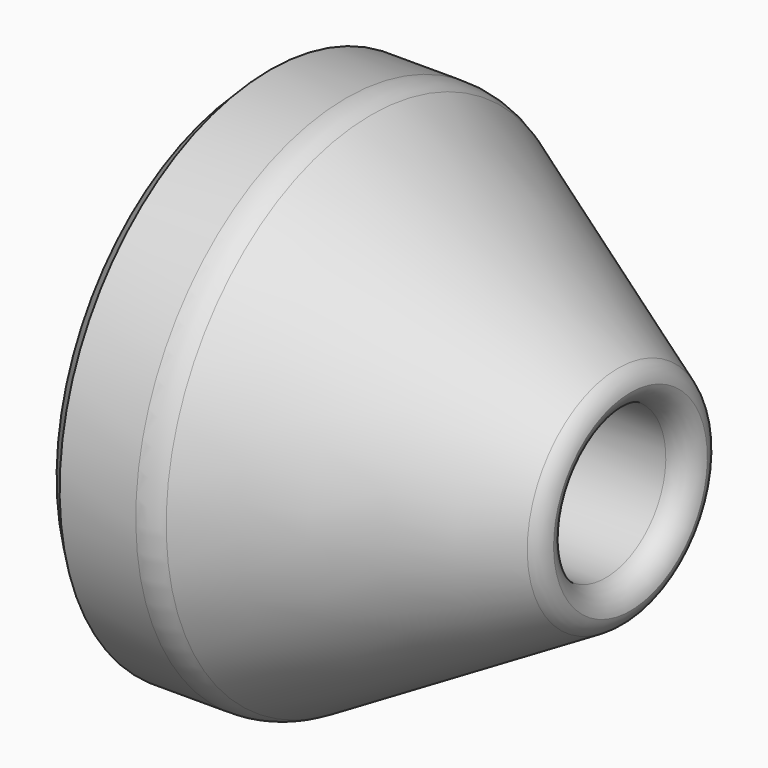
from build123d import *

# Parameters (mm, degrees)
F2_SIZE = 6


with BuildPart() as f1:
    # F0 (on Front) → F1 (revolve)
    with BuildSketch(Plane.XZ):
        with BuildLine():
            ThreePointArc((-103.6, 102.320508), (-108.423619, 104.318517), (-113.6, 105))
            Line((-113.6, 105), (-150, 105))
            Line((-150, 105), (-150, 93.55))
            Line((-150, 93.55), (-130, 93.55))
            Line((-130, 93.55), (-50, 30))
            Line((-50, 30), (-10, 30))
            ThreePointArc((-10, 30), (-3.532095, 32.373323), (-0.134275, 38.366759))
            ThreePointArc((-0.134275, 38.366759), (-1.778554, 42.426305), (-5, 45.393772))
            Line((-5, 45.393772), (-103.6, 102.320508))
        make_face()
    revolve(axis=Axis((-75, 0, 0), (-1, 0, 0)))

    # F2
    f2_edges = [f1.edges().sort_by_distance(p)[0] for p in [
        (-150, 0, -105),
    ]]
    chamfer(f2_edges, length=F2_SIZE)


solid = f1.part
